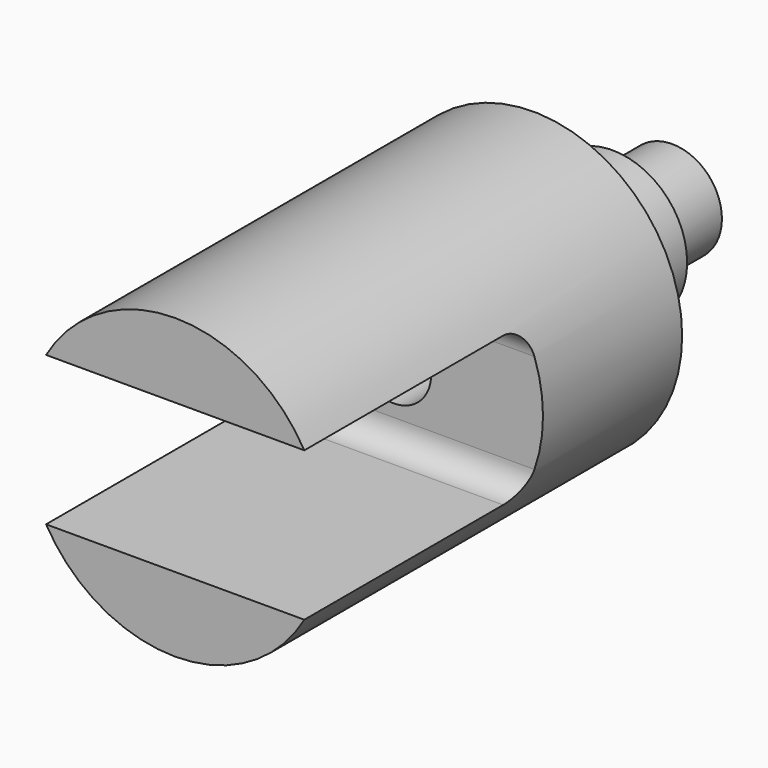
from build123d import *

# Parameters (mm, degrees)
F0_R     = 20
F1_DEPTH = 30
F2_R     = 30
F3_DEPTH = 40
F4_R     = 60
F5_DEPTH = 180
F6_R     = 15
F7_DEPTH = 250
F8_W     = 141.35922
F8_H     = 60
F9_DEPTH = 110
F10_R    = 10
F11_R    = 10


with BuildPart() as f1:
    # F0 (on Front) → F1 (new body)
    with BuildSketch(Plane.XZ):
        Circle(F0_R)
    extrude(amount=F1_DEPTH)

    # F2 (on face) → F3 (join)
    with BuildSketch(Plane.XZ.offset(30)):
        Circle(F2_R)
    extrude(amount=F3_DEPTH)

    # F4 (on face) → F5 (join)
    with BuildSketch(Plane.XZ.offset(70)):
        Circle(F4_R)
    extrude(amount=F5_DEPTH)

    # F6 (on face) → F7 (cut)
    with BuildSketch(Plane.XZ.offset(250)):
        Circle(F6_R)
    extrude(amount=-F7_DEPTH, mode=Mode.SUBTRACT)

    # F8 (on face) → F9 (cut)
    with BuildSketch(Plane.XZ.offset(250)):
        Rectangle(F8_W, F8_H)
    extrude(amount=-F9_DEPTH, mode=Mode.SUBTRACT)

    # F10
    f10_edges = [f1.edges().sort_by_distance(p)[0] for p in [
        (0, -140, 30),
    ]]
    fillet(f10_edges, radius=F10_R)

    # F11
    f11_edges = [f1.edges().sort_by_distance(p)[0] for p in [
        (0, -140, -30),
    ]]
    fillet(f11_edges, radius=F11_R)


solid = f1.part
